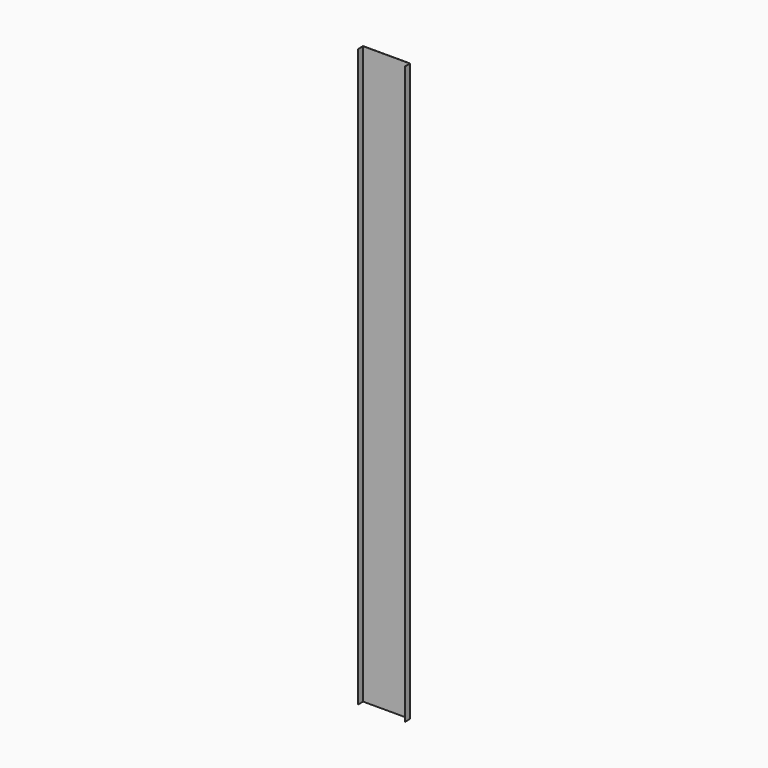
from build123d import *

# Parameters (mm, degrees)
F1_DEPTH = 1720.85


with BuildPart() as f1:
    # F0 (on Top) → F1 (new body)
    with BuildSketch(Plane.XY):
        with BuildLine():
            Line((140.3604, 0), (0.254, 0))
            ThreePointArc((0.254, 0), (0.074395, -0.074395), (0, -0.254))
            Line((0, -0.254), (0, -19.5072))
            Line((0, -19.5072), (0.4572, -19.5072))
            Line((0.4572, -19.5072), (0.4572, -0.7112))
            ThreePointArc((0.4572, -0.7112), (0.531595, -0.531595), (0.7112, -0.4572))
            Line((0.7112, -0.4572), (139.9032, -0.4572))
            ThreePointArc((139.9032, -0.4572), (140.082805, -0.531595), (140.1572, -0.7112))
            Line((140.1572, -0.7112), (140.1572, -19.5072))
            Line((140.1572, -19.5072), (140.6144, -19.5072))
            Line((140.6144, -19.5072), (140.6144, -0.254))
            ThreePointArc((140.6144, -0.254), (140.540005, -0.074395), (140.3604, 0))
        make_face()
    extrude(amount=F1_DEPTH)


solid = f1.part
